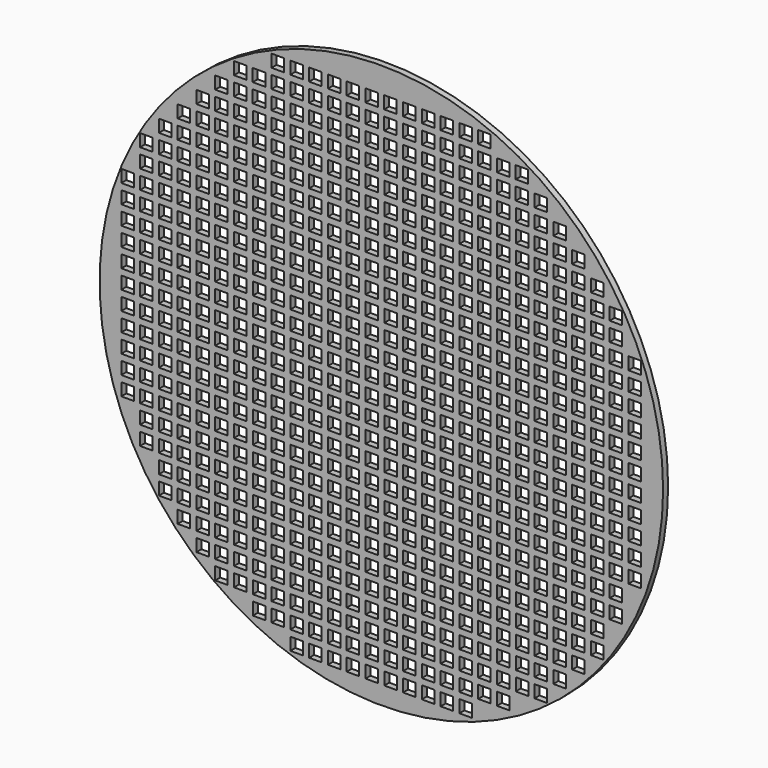
from build123d import *

# Parameters (mm, degrees)
F0_R     = 114.3
F1_DEPTH = 2.54
F2_W     = 5.08
F2_H     = 5.08
F3_DEPTH = 25.4
F4_W     = 5.08
F4_H     = 5.08
F5_DEPTH = 50.8
F6_W     = 5.080008
F6_H     = 5.08
F6_W_2   = 5.08
F7_DEPTH = 25.4


with BuildPart() as f1:
    # F0 (on Front) → F1 (new body)
    with BuildSketch(Plane.XZ):
        Circle(F0_R)
    extrude(amount=F1_DEPTH)

    # F2 (on face) → F3 (cut)
    with BuildSketch(Plane.XZ.offset(2.54)):
        with Locations((-64.856166, 78.62742)):
            Rectangle(F2_W, F2_H)
        with Locations((-64.856166, 71.00742)):
            Rectangle(F2_W, F2_H)
        with Locations((-64.856166, 63.38742)):
            Rectangle(F2_W, F2_H)
        with Locations((-64.856166, 55.76742)):
            Rectangle(F2_W, F2_H)
        with Locations((-64.856166, 48.14742)):
            Rectangle(F2_W, F2_H)
        with Locations((-64.856166, 40.52742)):
            Rectangle(F2_W, F2_H)
        with Locations((-64.856166, 32.90742)):
            Rectangle(F2_W, F2_H)
        with Locations((-64.856166, 25.28742)):
            Rectangle(F2_W, F2_H)
        with Locations((-64.856166, 17.66742)):
            Rectangle(F2_W, F2_H)
        with Locations((-64.856166, 10.04742)):
            Rectangle(F2_W, F2_H)
        with Locations((-64.856166, 2.42742)):
            Rectangle(F2_W, F2_H)
        with Locations((-64.856166, -5.19258)):
            Rectangle(F2_W, F2_H)
        with Locations((-64.856166, -12.81258)):
            Rectangle(F2_W, F2_H)
        with Locations((-64.856166, -20.43258)):
            Rectangle(F2_W, F2_H)
        with Locations((-64.856166, -28.05258)):
            Rectangle(F2_W, F2_H)
        with Locations((-64.856166, -35.67258)):
            Rectangle(F2_W, F2_H)
        with Locations((-64.856166, -43.29258)):
            Rectangle(F2_W, F2_H)
        with Locations((-64.856166, -50.91258)):
            Rectangle(F2_W, F2_H)
        with Locations((-64.856166, -58.53258)):
            Rectangle(F2_W, F2_H)
        with Locations((-64.856166, -66.15258)):
            Rectangle(F2_W, F2_H)
        with Locations((-64.856166, -73.77258)):
            Rectangle(F2_W, F2_H)
        with Locations((-64.856166, -81.39258)):
            Rectangle(F2_W, F2_H)
        with Locations((-57.236166, 78.62742)):
            Rectangle(F2_W, F2_H)
        with Locations((-57.236166, 71.00742)):
            Rectangle(F2_W, F2_H)
        with Locations((-57.236166, 63.38742)):
            Rectangle(F2_W, F2_H)
        with Locations((-57.236166, 55.76742)):
            Rectangle(F2_W, F2_H)
        with Locations((-57.236166, 48.14742)):
            Rectangle(F2_W, F2_H)
        with Locations((-57.236166, 40.52742)):
            Rectangle(F2_W, F2_H)
        with Locations((-57.236166, 32.90742)):
            Rectangle(F2_W, F2_H)
        with Locations((-57.236166, 25.28742)):
            Rectangle(F2_W, F2_H)
        with Locations((-57.236166, 17.66742)):
            Rectangle(F2_W, F2_H)
        with Locations((-57.236166, 10.04742)):
            Rectangle(F2_W, F2_H)
        with Locations((-57.236166, 2.42742)):
            Rectangle(F2_W, F2_H)
        with Locations((-57.236166, -5.19258)):
            Rectangle(F2_W, F2_H)
        with Locations((-57.236166, -12.81258)):
            Rectangle(F2_W, F2_H)
        with Locations((-57.236166, -20.43258)):
            Rectangle(F2_W, F2_H)
        with Locations((-57.236166, -28.05258)):
            Rectangle(F2_W, F2_H)
        with Locations((-57.236166, -35.67258)):
            Rectangle(F2_W, F2_H)
        with Locations((-57.236166, -43.29258)):
            Rectangle(F2_W, F2_H)
        with Locations((-57.236166, -50.91258)):
            Rectangle(F2_W, F2_H)
        with Locations((-57.236166, -58.53258)):
            Rectangle(F2_W, F2_H)
        with Locations((-57.236166, -66.15258)):
            Rectangle(F2_W, F2_H)
        with Locations((-57.236166, -73.77258)):
            Rectangle(F2_W, F2_H)
        with Locations((-57.236166, -81.39258)):
            Rectangle(F2_W, F2_H)
        with Locations((-49.616166, 78.62742)):
            Rectangle(F2_W, F2_H)
        with Locations((-49.616166, 71.00742)):
            Rectangle(F2_W, F2_H)
        with Locations((-49.616166, 63.38742)):
            Rectangle(F2_W, F2_H)
        with Locations((-49.616166, 55.76742)):
            Rectangle(F2_W, F2_H)
        with Locations((-49.616166, 48.14742)):
            Rectangle(F2_W, F2_H)
        with Locations((-49.616166, 40.52742)):
            Rectangle(F2_W, F2_H)
        with Locations((-49.616166, 32.90742)):
            Rectangle(F2_W, F2_H)
        with Locations((-49.616166, 25.28742)):
            Rectangle(F2_W, F2_H)
        with Locations((-49.616166, 17.66742)):
            Rectangle(F2_W, F2_H)
        with Locations((-49.616166, 10.04742)):
            Rectangle(F2_W, F2_H)
        with Locations((-49.616166, 2.42742)):
            Rectangle(F2_W, F2_H)
        with Locations((-49.616166, -5.19258)):
            Rectangle(F2_W, F2_H)
        with Locations((-49.616166, -12.81258)):
            Rectangle(F2_W, F2_H)
        with Locations((-49.616166, -20.43258)):
            Rectangle(F2_W, F2_H)
        with Locations((-49.616166, -28.05258)):
            Rectangle(F2_W, F2_H)
        with Locations((-49.616166, -35.67258)):
            Rectangle(F2_W, F2_H)
        with Locations((-49.616166, -43.29258)):
            Rectangle(F2_W, F2_H)
        with Locations((-49.616166, -50.91258)):
            Rectangle(F2_W, F2_H)
        with Locations((-49.616166, -58.53258)):
            Rectangle(F2_W, F2_H)
        with Locations((-49.616166, -66.15258)):
            Rectangle(F2_W, F2_H)
        with Locations((-49.616166, -73.77258)):
            Rectangle(F2_W, F2_H)
        with Locations((-49.616166, -81.39258)):
            Rectangle(F2_W, F2_H)
        with Locations((-41.996166, 78.62742)):
            Rectangle(F2_W, F2_H)
        with Locations((-41.996166, 71.00742)):
            Rectangle(F2_W, F2_H)
        with Locations((-41.996166, 63.38742)):
            Rectangle(F2_W, F2_H)
        with Locations((-41.996166, 55.76742)):
            Rectangle(F2_W, F2_H)
        with Locations((-41.996166, 48.14742)):
            Rectangle(F2_W, F2_H)
        with Locations((-41.996166, 40.52742)):
            Rectangle(F2_W, F2_H)
        with Locations((-41.996166, 32.90742)):
            Rectangle(F2_W, F2_H)
        with Locations((-41.996166, 25.28742)):
            Rectangle(F2_W, F2_H)
        with Locations((-41.996166, 17.66742)):
            Rectangle(F2_W, F2_H)
        with Locations((-41.996166, 10.04742)):
            Rectangle(F2_W, F2_H)
        with Locations((-41.996166, 2.42742)):
            Rectangle(F2_W, F2_H)
        with Locations((-41.996166, -5.19258)):
            Rectangle(F2_W, F2_H)
        with Locations((-41.996166, -12.81258)):
            Rectangle(F2_W, F2_H)
        with Locations((-41.996166, -20.43258)):
            Rectangle(F2_W, F2_H)
        with Locations((-41.996166, -28.05258)):
            Rectangle(F2_W, F2_H)
        with Locations((-41.996166, -35.67258)):
            Rectangle(F2_W, F2_H)
        with Locations((-41.996166, -43.29258)):
            Rectangle(F2_W, F2_H)
        with Locations((-41.996166, -50.91258)):
            Rectangle(F2_W, F2_H)
        with Locations((-41.996166, -58.53258)):
            Rectangle(F2_W, F2_H)
        with Locations((-41.996166, -66.15258)):
            Rectangle(F2_W, F2_H)
        with Locations((-41.996166, -73.77258)):
            Rectangle(F2_W, F2_H)
        with Locations((-41.996166, -81.39258)):
            Rectangle(F2_W, F2_H)
        with Locations((-34.376166, 78.62742)):
            Rectangle(F2_W, F2_H)
        with Locations((-34.376166, 71.00742)):
            Rectangle(F2_W, F2_H)
        with Locations((-34.376166, 63.38742)):
            Rectangle(F2_W, F2_H)
        with Locations((-34.376166, 55.76742)):
            Rectangle(F2_W, F2_H)
        with Locations((-34.376166, 48.14742)):
            Rectangle(F2_W, F2_H)
        with Locations((-34.376166, 40.52742)):
            Rectangle(F2_W, F2_H)
        with Locations((-34.376166, 32.90742)):
            Rectangle(F2_W, F2_H)
        with Locations((-34.376166, 25.28742)):
            Rectangle(F2_W, F2_H)
        with Locations((-34.376166, 17.66742)):
            Rectangle(F2_W, F2_H)
        with Locations((-34.376166, 10.04742)):
            Rectangle(F2_W, F2_H)
        with Locations((-34.376166, 2.42742)):
            Rectangle(F2_W, F2_H)
        with Locations((-34.376166, -5.19258)):
            Rectangle(F2_W, F2_H)
        with Locations((-34.376166, -12.81258)):
            Rectangle(F2_W, F2_H)
        with Locations((-34.376166, -20.43258)):
            Rectangle(F2_W, F2_H)
        with Locations((-34.376166, -28.05258)):
            Rectangle(F2_W, F2_H)
        with Locations((-34.376166, -35.67258)):
            Rectangle(F2_W, F2_H)
        with Locations((-34.376166, -43.29258)):
            Rectangle(F2_W, F2_H)
        with Locations((-34.376166, -50.91258)):
            Rectangle(F2_W, F2_H)
        with Locations((-34.376166, -58.53258)):
            Rectangle(F2_W, F2_H)
        with Locations((-34.376166, -66.15258)):
            Rectangle(F2_W, F2_H)
        with Locations((-34.376166, -73.77258)):
            Rectangle(F2_W, F2_H)
        with Locations((-34.376166, -81.39258)):
            Rectangle(F2_W, F2_H)
        with Locations((-26.756166, 78.62742)):
            Rectangle(F2_W, F2_H)
        with Locations((-26.756166, 71.00742)):
            Rectangle(F2_W, F2_H)
        with Locations((-26.756166, 63.38742)):
            Rectangle(F2_W, F2_H)
        with Locations((-26.756166, 55.76742)):
            Rectangle(F2_W, F2_H)
        with Locations((-26.756166, 48.14742)):
            Rectangle(F2_W, F2_H)
        with Locations((-26.756166, 40.52742)):
            Rectangle(F2_W, F2_H)
        with Locations((-26.756166, 32.90742)):
            Rectangle(F2_W, F2_H)
        with Locations((-26.756166, 25.28742)):
            Rectangle(F2_W, F2_H)
        with Locations((-26.756166, 17.66742)):
            Rectangle(F2_W, F2_H)
        with Locations((-26.756166, 10.04742)):
            Rectangle(F2_W, F2_H)
        with Locations((-26.756166, 2.42742)):
            Rectangle(F2_W, F2_H)
        with Locations((-26.756166, -5.19258)):
            Rectangle(F2_W, F2_H)
        with Locations((-26.756166, -12.81258)):
            Rectangle(F2_W, F2_H)
        with Locations((-26.756166, -20.43258)):
            Rectangle(F2_W, F2_H)
        with Locations((-26.756166, -28.05258)):
            Rectangle(F2_W, F2_H)
        with Locations((-26.756166, -35.67258)):
            Rectangle(F2_W, F2_H)
        with Locations((-26.756166, -43.29258)):
            Rectangle(F2_W, F2_H)
        with Locations((-26.756166, -50.91258)):
            Rectangle(F2_W, F2_H)
        with Locations((-26.756166, -58.53258)):
            Rectangle(F2_W, F2_H)
        with Locations((-26.756166, -66.15258)):
            Rectangle(F2_W, F2_H)
        with Locations((-26.756166, -73.77258)):
            Rectangle(F2_W, F2_H)
        with Locations((-26.756166, -81.39258)):
            Rectangle(F2_W, F2_H)
        with Locations((-19.136166, 78.62742)):
            Rectangle(F2_W, F2_H)
        with Locations((-19.136166, 71.00742)):
            Rectangle(F2_W, F2_H)
        with Locations((-19.136166, 63.38742)):
            Rectangle(F2_W, F2_H)
        with Locations((-19.136166, 55.76742)):
            Rectangle(F2_W, F2_H)
        with Locations((-19.136166, 48.14742)):
            Rectangle(F2_W, F2_H)
        with Locations((-19.136166, 40.52742)):
            Rectangle(F2_W, F2_H)
        with Locations((-19.136166, 32.90742)):
            Rectangle(F2_W, F2_H)
        with Locations((-19.136166, 25.28742)):
            Rectangle(F2_W, F2_H)
        with Locations((-19.136166, 17.66742)):
            Rectangle(F2_W, F2_H)
        with Locations((-19.136166, 10.04742)):
            Rectangle(F2_W, F2_H)
        with Locations((-19.136166, 2.42742)):
            Rectangle(F2_W, F2_H)
        with Locations((-19.136166, -5.19258)):
            Rectangle(F2_W, F2_H)
        with Locations((-19.136166, -12.81258)):
            Rectangle(F2_W, F2_H)
        with Locations((-19.136166, -20.43258)):
            Rectangle(F2_W, F2_H)
        with Locations((-19.136166, -28.05258)):
            Rectangle(F2_W, F2_H)
        with Locations((-19.136166, -35.67258)):
            Rectangle(F2_W, F2_H)
        with Locations((-19.136166, -43.29258)):
            Rectangle(F2_W, F2_H)
        with Locations((-19.136166, -50.91258)):
            Rectangle(F2_W, F2_H)
        with Locations((-19.136166, -58.53258)):
            Rectangle(F2_W, F2_H)
        with Locations((-19.136166, -66.15258)):
            Rectangle(F2_W, F2_H)
        with Locations((-19.136166, -73.77258)):
            Rectangle(F2_W, F2_H)
        with Locations((-19.136166, -81.39258)):
            Rectangle(F2_W, F2_H)
        with Locations((-11.516166, 78.62742)):
            Rectangle(F2_W, F2_H)
        with Locations((-11.516166, 71.00742)):
            Rectangle(F2_W, F2_H)
        with Locations((-11.516166, 63.38742)):
            Rectangle(F2_W, F2_H)
        with Locations((-11.516166, 55.76742)):
            Rectangle(F2_W, F2_H)
        with Locations((-11.516166, 48.14742)):
            Rectangle(F2_W, F2_H)
        with Locations((-11.516166, 40.52742)):
            Rectangle(F2_W, F2_H)
        with Locations((-11.516166, 32.90742)):
            Rectangle(F2_W, F2_H)
        with Locations((-11.516166, 25.28742)):
            Rectangle(F2_W, F2_H)
        with Locations((-11.516166, 17.66742)):
            Rectangle(F2_W, F2_H)
        with Locations((-11.516166, 10.04742)):
            Rectangle(F2_W, F2_H)
        with Locations((-11.516166, 2.42742)):
            Rectangle(F2_W, F2_H)
        with Locations((-11.516166, -5.19258)):
            Rectangle(F2_W, F2_H)
        with Locations((-11.516166, -12.81258)):
            Rectangle(F2_W, F2_H)
        with Locations((-11.516166, -20.43258)):
            Rectangle(F2_W, F2_H)
        with Locations((-11.516166, -28.05258)):
            Rectangle(F2_W, F2_H)
        with Locations((-11.516166, -35.67258)):
            Rectangle(F2_W, F2_H)
        with Locations((-11.516166, -43.29258)):
            Rectangle(F2_W, F2_H)
        with Locations((-11.516166, -50.91258)):
            Rectangle(F2_W, F2_H)
        with Locations((-11.516166, -58.53258)):
            Rectangle(F2_W, F2_H)
        with Locations((-11.516166, -66.15258)):
            Rectangle(F2_W, F2_H)
        with Locations((-11.516166, -73.77258)):
            Rectangle(F2_W, F2_H)
        with Locations((-11.516166, -81.39258)):
            Rectangle(F2_W, F2_H)
        with Locations((-3.896166, 78.62742)):
            Rectangle(F2_W, F2_H)
        with Locations((-3.896166, 71.00742)):
            Rectangle(F2_W, F2_H)
        with Locations((-3.896166, 63.38742)):
            Rectangle(F2_W, F2_H)
        with Locations((-3.896166, 55.76742)):
            Rectangle(F2_W, F2_H)
        with Locations((-3.896166, 48.14742)):
            Rectangle(F2_W, F2_H)
        with Locations((-3.896166, 40.52742)):
            Rectangle(F2_W, F2_H)
        with Locations((-3.896166, 32.90742)):
            Rectangle(F2_W, F2_H)
        with Locations((-3.896166, 25.28742)):
            Rectangle(F2_W, F2_H)
        with Locations((-3.896166, 17.66742)):
            Rectangle(F2_W, F2_H)
        with Locations((-3.896166, 10.04742)):
            Rectangle(F2_W, F2_H)
        with Locations((-3.896166, 2.42742)):
            Rectangle(F2_W, F2_H)
        with Locations((-3.896166, -5.19258)):
            Rectangle(F2_W, F2_H)
        with Locations((-3.896166, -12.81258)):
            Rectangle(F2_W, F2_H)
        with Locations((-3.896166, -20.43258)):
            Rectangle(F2_W, F2_H)
        with Locations((-3.896166, -28.05258)):
            Rectangle(F2_W, F2_H)
        with Locations((-3.896166, -35.67258)):
            Rectangle(F2_W, F2_H)
        with Locations((-3.896166, -43.29258)):
            Rectangle(F2_W, F2_H)
        with Locations((-3.896166, -50.91258)):
            Rectangle(F2_W, F2_H)
        with Locations((-3.896166, -58.53258)):
            Rectangle(F2_W, F2_H)
        with Locations((-3.896166, -66.15258)):
            Rectangle(F2_W, F2_H)
        with Locations((-3.896166, -73.77258)):
            Rectangle(F2_W, F2_H)
        with Locations((-3.896166, -81.39258)):
            Rectangle(F2_W, F2_H)
        with Locations((3.723834, 78.62742)):
            Rectangle(F2_W, F2_H)
        with Locations((3.723834, 71.00742)):
            Rectangle(F2_W, F2_H)
        with Locations((3.723834, 63.38742)):
            Rectangle(F2_W, F2_H)
        with Locations((3.723834, 55.76742)):
            Rectangle(F2_W, F2_H)
        with Locations((3.723834, 48.14742)):
            Rectangle(F2_W, F2_H)
        with Locations((3.723834, 40.52742)):
            Rectangle(F2_W, F2_H)
        with Locations((3.723834, 32.90742)):
            Rectangle(F2_W, F2_H)
        with Locations((3.723834, 25.28742)):
            Rectangle(F2_W, F2_H)
        with Locations((3.723834, 17.66742)):
            Rectangle(F2_W, F2_H)
        with Locations((3.723834, 10.04742)):
            Rectangle(F2_W, F2_H)
        with Locations((3.723834, 2.42742)):
            Rectangle(F2_W, F2_H)
        with Locations((3.723834, -5.19258)):
            Rectangle(F2_W, F2_H)
        with Locations((3.723834, -12.81258)):
            Rectangle(F2_W, F2_H)
        with Locations((3.723834, -20.43258)):
            Rectangle(F2_W, F2_H)
        with Locations((3.723834, -28.05258)):
            Rectangle(F2_W, F2_H)
        with Locations((3.723834, -35.67258)):
            Rectangle(F2_W, F2_H)
        with Locations((3.723834, -43.29258)):
            Rectangle(F2_W, F2_H)
        with Locations((3.723834, -50.91258)):
            Rectangle(F2_W, F2_H)
        with Locations((3.723834, -58.53258)):
            Rectangle(F2_W, F2_H)
        with Locations((3.723834, -66.15258)):
            Rectangle(F2_W, F2_H)
        with Locations((3.723834, -73.77258)):
            Rectangle(F2_W, F2_H)
        with Locations((3.723834, -81.39258)):
            Rectangle(F2_W, F2_H)
        with Locations((11.343834, 78.62742)):
            Rectangle(F2_W, F2_H)
        with Locations((11.343834, 71.00742)):
            Rectangle(F2_W, F2_H)
        with Locations((11.343834, 63.38742)):
            Rectangle(F2_W, F2_H)
        with Locations((11.343834, 55.76742)):
            Rectangle(F2_W, F2_H)
        with Locations((11.343834, 48.14742)):
            Rectangle(F2_W, F2_H)
        with Locations((11.343834, 40.52742)):
            Rectangle(F2_W, F2_H)
        with Locations((11.343834, 32.90742)):
            Rectangle(F2_W, F2_H)
        with Locations((11.343834, 25.28742)):
            Rectangle(F2_W, F2_H)
        with Locations((11.343834, 17.66742)):
            Rectangle(F2_W, F2_H)
        with Locations((11.343834, 10.04742)):
            Rectangle(F2_W, F2_H)
        with Locations((11.343834, 2.42742)):
            Rectangle(F2_W, F2_H)
        with Locations((11.343834, -5.19258)):
            Rectangle(F2_W, F2_H)
        with Locations((11.343834, -12.81258)):
            Rectangle(F2_W, F2_H)
        with Locations((11.343834, -20.43258)):
            Rectangle(F2_W, F2_H)
        with Locations((11.343834, -28.05258)):
            Rectangle(F2_W, F2_H)
        with Locations((11.343834, -35.67258)):
            Rectangle(F2_W, F2_H)
        with Locations((11.343834, -43.29258)):
            Rectangle(F2_W, F2_H)
        with Locations((11.343834, -50.91258)):
            Rectangle(F2_W, F2_H)
        with Locations((11.343834, -58.53258)):
            Rectangle(F2_W, F2_H)
        with Locations((11.343834, -66.15258)):
            Rectangle(F2_W, F2_H)
        with Locations((11.343834, -73.77258)):
            Rectangle(F2_W, F2_H)
        with Locations((11.343834, -81.39258)):
            Rectangle(F2_W, F2_H)
        with Locations((18.963834, 78.62742)):
            Rectangle(F2_W, F2_H)
        with Locations((18.963834, 71.00742)):
            Rectangle(F2_W, F2_H)
        with Locations((18.963834, 63.38742)):
            Rectangle(F2_W, F2_H)
        with Locations((18.963834, 55.76742)):
            Rectangle(F2_W, F2_H)
        with Locations((18.963834, 48.14742)):
            Rectangle(F2_W, F2_H)
        with Locations((18.963834, 40.52742)):
            Rectangle(F2_W, F2_H)
        with Locations((18.963834, 32.90742)):
            Rectangle(F2_W, F2_H)
        with Locations((18.963834, 25.28742)):
            Rectangle(F2_W, F2_H)
        with Locations((18.963834, 17.66742)):
            Rectangle(F2_W, F2_H)
        with Locations((18.963834, 10.04742)):
            Rectangle(F2_W, F2_H)
        with Locations((18.963834, 2.42742)):
            Rectangle(F2_W, F2_H)
        with Locations((18.963834, -5.19258)):
            Rectangle(F2_W, F2_H)
        with Locations((18.963834, -12.81258)):
            Rectangle(F2_W, F2_H)
        with Locations((18.963834, -20.43258)):
            Rectangle(F2_W, F2_H)
        with Locations((18.963834, -28.05258)):
            Rectangle(F2_W, F2_H)
        with Locations((18.963834, -35.67258)):
            Rectangle(F2_W, F2_H)
        with Locations((18.963834, -43.29258)):
            Rectangle(F2_W, F2_H)
        with Locations((18.963834, -50.91258)):
            Rectangle(F2_W, F2_H)
        with Locations((18.963834, -58.53258)):
            Rectangle(F2_W, F2_H)
        with Locations((18.963834, -66.15258)):
            Rectangle(F2_W, F2_H)
        with Locations((18.963834, -73.77258)):
            Rectangle(F2_W, F2_H)
        with Locations((18.963834, -81.39258)):
            Rectangle(F2_W, F2_H)
        with Locations((26.583834, 78.62742)):
            Rectangle(F2_W, F2_H)
        with Locations((26.583834, 71.00742)):
            Rectangle(F2_W, F2_H)
        with Locations((26.583834, 63.38742)):
            Rectangle(F2_W, F2_H)
        with Locations((26.583834, 55.76742)):
            Rectangle(F2_W, F2_H)
        with Locations((26.583834, 48.14742)):
            Rectangle(F2_W, F2_H)
        with Locations((26.583834, 40.52742)):
            Rectangle(F2_W, F2_H)
        with Locations((26.583834, 32.90742)):
            Rectangle(F2_W, F2_H)
        with Locations((26.583834, 25.28742)):
            Rectangle(F2_W, F2_H)
        with Locations((26.583834, 17.66742)):
            Rectangle(F2_W, F2_H)
        with Locations((26.583834, 10.04742)):
            Rectangle(F2_W, F2_H)
        with Locations((26.583834, 2.42742)):
            Rectangle(F2_W, F2_H)
        with Locations((26.583834, -5.19258)):
            Rectangle(F2_W, F2_H)
        with Locations((26.583834, -12.81258)):
            Rectangle(F2_W, F2_H)
        with Locations((26.583834, -20.43258)):
            Rectangle(F2_W, F2_H)
        with Locations((26.583834, -28.05258)):
            Rectangle(F2_W, F2_H)
        with Locations((26.583834, -35.67258)):
            Rectangle(F2_W, F2_H)
        with Locations((26.583834, -43.29258)):
            Rectangle(F2_W, F2_H)
        with Locations((26.583834, -50.91258)):
            Rectangle(F2_W, F2_H)
        with Locations((26.583834, -58.53258)):
            Rectangle(F2_W, F2_H)
        with Locations((26.583834, -66.15258)):
            Rectangle(F2_W, F2_H)
        with Locations((26.583834, -73.77258)):
            Rectangle(F2_W, F2_H)
        with Locations((26.583834, -81.39258)):
            Rectangle(F2_W, F2_H)
        with Locations((34.203834, 78.62742)):
            Rectangle(F2_W, F2_H)
        with Locations((34.203834, 71.00742)):
            Rectangle(F2_W, F2_H)
        with Locations((34.203834, 63.38742)):
            Rectangle(F2_W, F2_H)
        with Locations((34.203834, 55.76742)):
            Rectangle(F2_W, F2_H)
        with Locations((34.203834, 48.14742)):
            Rectangle(F2_W, F2_H)
        with Locations((34.203834, 40.52742)):
            Rectangle(F2_W, F2_H)
        with Locations((34.203834, 32.90742)):
            Rectangle(F2_W, F2_H)
        with Locations((34.203834, 25.28742)):
            Rectangle(F2_W, F2_H)
        with Locations((34.203834, 17.66742)):
            Rectangle(F2_W, F2_H)
        with Locations((34.203834, 10.04742)):
            Rectangle(F2_W, F2_H)
        with Locations((34.203834, 2.42742)):
            Rectangle(F2_W, F2_H)
        with Locations((34.203834, -5.19258)):
            Rectangle(F2_W, F2_H)
        with Locations((34.203834, -12.81258)):
            Rectangle(F2_W, F2_H)
        with Locations((34.203834, -20.43258)):
            Rectangle(F2_W, F2_H)
        with Locations((34.203834, -28.05258)):
            Rectangle(F2_W, F2_H)
        with Locations((34.203834, -35.67258)):
            Rectangle(F2_W, F2_H)
        with Locations((34.203834, -43.29258)):
            Rectangle(F2_W, F2_H)
        with Locations((34.203834, -50.91258)):
            Rectangle(F2_W, F2_H)
        with Locations((34.203834, -58.53258)):
            Rectangle(F2_W, F2_H)
        with Locations((34.203834, -66.15258)):
            Rectangle(F2_W, F2_H)
        with Locations((34.203834, -73.77258)):
            Rectangle(F2_W, F2_H)
        with Locations((34.203834, -81.39258)):
            Rectangle(F2_W, F2_H)
        with Locations((41.823834, 78.62742)):
            Rectangle(F2_W, F2_H)
        with Locations((41.823834, 71.00742)):
            Rectangle(F2_W, F2_H)
        with Locations((41.823834, 63.38742)):
            Rectangle(F2_W, F2_H)
        with Locations((41.823834, 55.76742)):
            Rectangle(F2_W, F2_H)
        with Locations((41.823834, 48.14742)):
            Rectangle(F2_W, F2_H)
        with Locations((41.823834, 40.52742)):
            Rectangle(F2_W, F2_H)
        with Locations((41.823834, 32.90742)):
            Rectangle(F2_W, F2_H)
        with Locations((41.823834, 25.28742)):
            Rectangle(F2_W, F2_H)
        with Locations((41.823834, 17.66742)):
            Rectangle(F2_W, F2_H)
        with Locations((41.823834, 10.04742)):
            Rectangle(F2_W, F2_H)
        with Locations((41.823834, 2.42742)):
            Rectangle(F2_W, F2_H)
        with Locations((41.823834, -5.19258)):
            Rectangle(F2_W, F2_H)
        with Locations((41.823834, -12.81258)):
            Rectangle(F2_W, F2_H)
        with Locations((41.823834, -20.43258)):
            Rectangle(F2_W, F2_H)
        with Locations((41.823834, -28.05258)):
            Rectangle(F2_W, F2_H)
        with Locations((41.823834, -35.67258)):
            Rectangle(F2_W, F2_H)
        with Locations((41.823834, -43.29258)):
            Rectangle(F2_W, F2_H)
        with Locations((41.823834, -50.91258)):
            Rectangle(F2_W, F2_H)
        with Locations((41.823834, -58.53258)):
            Rectangle(F2_W, F2_H)
        with Locations((41.823834, -66.15258)):
            Rectangle(F2_W, F2_H)
        with Locations((41.823834, -73.77258)):
            Rectangle(F2_W, F2_H)
        with Locations((41.823834, -81.39258)):
            Rectangle(F2_W, F2_H)
        with Locations((49.443834, 78.62742)):
            Rectangle(F2_W, F2_H)
        with Locations((49.443834, 71.00742)):
            Rectangle(F2_W, F2_H)
        with Locations((49.443834, 63.38742)):
            Rectangle(F2_W, F2_H)
        with Locations((49.443834, 55.76742)):
            Rectangle(F2_W, F2_H)
        with Locations((49.443834, 48.14742)):
            Rectangle(F2_W, F2_H)
        with Locations((49.443834, 40.52742)):
            Rectangle(F2_W, F2_H)
        with Locations((49.443834, 32.90742)):
            Rectangle(F2_W, F2_H)
        with Locations((49.443834, 25.28742)):
            Rectangle(F2_W, F2_H)
        with Locations((49.443834, 17.66742)):
            Rectangle(F2_W, F2_H)
        with Locations((49.443834, 10.04742)):
            Rectangle(F2_W, F2_H)
        with Locations((49.443834, 2.42742)):
            Rectangle(F2_W, F2_H)
        with Locations((49.443834, -5.19258)):
            Rectangle(F2_W, F2_H)
        with Locations((49.443834, -12.81258)):
            Rectangle(F2_W, F2_H)
        with Locations((49.443834, -20.43258)):
            Rectangle(F2_W, F2_H)
        with Locations((49.443834, -28.05258)):
            Rectangle(F2_W, F2_H)
        with Locations((49.443834, -35.67258)):
            Rectangle(F2_W, F2_H)
        with Locations((49.443834, -43.29258)):
            Rectangle(F2_W, F2_H)
        with Locations((49.443834, -50.91258)):
            Rectangle(F2_W, F2_H)
        with Locations((49.443834, -58.53258)):
            Rectangle(F2_W, F2_H)
        with Locations((49.443834, -66.15258)):
            Rectangle(F2_W, F2_H)
        with Locations((49.443834, -73.77258)):
            Rectangle(F2_W, F2_H)
        with Locations((49.443834, -81.39258)):
            Rectangle(F2_W, F2_H)
        with Locations((57.063834, 78.62742)):
            Rectangle(F2_W, F2_H)
        with Locations((57.063834, 71.00742)):
            Rectangle(F2_W, F2_H)
        with Locations((57.063834, 63.38742)):
            Rectangle(F2_W, F2_H)
        with Locations((57.063834, 55.76742)):
            Rectangle(F2_W, F2_H)
        with Locations((57.063834, 48.14742)):
            Rectangle(F2_W, F2_H)
        with Locations((57.063834, 40.52742)):
            Rectangle(F2_W, F2_H)
        with Locations((57.063834, 32.90742)):
            Rectangle(F2_W, F2_H)
        with Locations((57.063834, 25.28742)):
            Rectangle(F2_W, F2_H)
        with Locations((57.063834, 17.66742)):
            Rectangle(F2_W, F2_H)
        with Locations((57.063834, 10.04742)):
            Rectangle(F2_W, F2_H)
        with Locations((57.063834, 2.42742)):
            Rectangle(F2_W, F2_H)
        with Locations((57.063834, -5.19258)):
            Rectangle(F2_W, F2_H)
        with Locations((57.063834, -12.81258)):
            Rectangle(F2_W, F2_H)
        with Locations((57.063834, -20.43258)):
            Rectangle(F2_W, F2_H)
        with Locations((57.063834, -28.05258)):
            Rectangle(F2_W, F2_H)
        with Locations((57.063834, -35.67258)):
            Rectangle(F2_W, F2_H)
        with Locations((57.063834, -43.29258)):
            Rectangle(F2_W, F2_H)
        with Locations((57.063834, -50.91258)):
            Rectangle(F2_W, F2_H)
        with Locations((57.063834, -58.53258)):
            Rectangle(F2_W, F2_H)
        with Locations((57.063834, -66.15258)):
            Rectangle(F2_W, F2_H)
        with Locations((57.063834, -73.77258)):
            Rectangle(F2_W, F2_H)
        with Locations((57.063834, -81.39258)):
            Rectangle(F2_W, F2_H)
        with Locations((64.683834, 78.62742)):
            Rectangle(F2_W, F2_H)
        with Locations((64.683834, 71.00742)):
            Rectangle(F2_W, F2_H)
        with Locations((64.683834, 63.38742)):
            Rectangle(F2_W, F2_H)
        with Locations((64.683834, 55.76742)):
            Rectangle(F2_W, F2_H)
        with Locations((64.683834, 48.14742)):
            Rectangle(F2_W, F2_H)
        with Locations((64.683834, 40.52742)):
            Rectangle(F2_W, F2_H)
        with Locations((64.683834, 32.90742)):
            Rectangle(F2_W, F2_H)
        with Locations((64.683834, 25.28742)):
            Rectangle(F2_W, F2_H)
        with Locations((64.683834, 17.66742)):
            Rectangle(F2_W, F2_H)
        with Locations((64.683834, 10.04742)):
            Rectangle(F2_W, F2_H)
        with Locations((64.683834, 2.42742)):
            Rectangle(F2_W, F2_H)
        with Locations((64.683834, -5.19258)):
            Rectangle(F2_W, F2_H)
        with Locations((64.683834, -12.81258)):
            Rectangle(F2_W, F2_H)
        with Locations((64.683834, -20.43258)):
            Rectangle(F2_W, F2_H)
        with Locations((64.683834, -28.05258)):
            Rectangle(F2_W, F2_H)
        with Locations((64.683834, -35.67258)):
            Rectangle(F2_W, F2_H)
        with Locations((64.683834, -43.29258)):
            Rectangle(F2_W, F2_H)
        with Locations((64.683834, -50.91258)):
            Rectangle(F2_W, F2_H)
        with Locations((64.683834, -58.53258)):
            Rectangle(F2_W, F2_H)
        with Locations((64.683834, -66.15258)):
            Rectangle(F2_W, F2_H)
        with Locations((64.683834, -73.77258)):
            Rectangle(F2_W, F2_H)
        with Locations((64.683834, -81.39258)):
            Rectangle(F2_W, F2_H)
        with Locations((72.303834, 78.62742)):
            Rectangle(F2_W, F2_H)
        with Locations((72.303834, 71.00742)):
            Rectangle(F2_W, F2_H)
        with Locations((72.303834, 63.38742)):
            Rectangle(F2_W, F2_H)
        with Locations((72.303834, 55.76742)):
            Rectangle(F2_W, F2_H)
        with Locations((72.303834, 48.14742)):
            Rectangle(F2_W, F2_H)
        with Locations((72.303834, 40.52742)):
            Rectangle(F2_W, F2_H)
        with Locations((72.303834, 32.90742)):
            Rectangle(F2_W, F2_H)
        with Locations((72.303834, 25.28742)):
            Rectangle(F2_W, F2_H)
        with Locations((72.303834, 17.66742)):
            Rectangle(F2_W, F2_H)
        with Locations((72.303834, 10.04742)):
            Rectangle(F2_W, F2_H)
        with Locations((72.303834, 2.42742)):
            Rectangle(F2_W, F2_H)
        with Locations((72.303834, -5.19258)):
            Rectangle(F2_W, F2_H)
        with Locations((72.303834, -12.81258)):
            Rectangle(F2_W, F2_H)
        with Locations((72.303834, -20.43258)):
            Rectangle(F2_W, F2_H)
        with Locations((72.303834, -28.05258)):
            Rectangle(F2_W, F2_H)
        with Locations((72.303834, -35.67258)):
            Rectangle(F2_W, F2_H)
        with Locations((72.303834, -43.29258)):
            Rectangle(F2_W, F2_H)
        with Locations((72.303834, -50.91258)):
            Rectangle(F2_W, F2_H)
        with Locations((72.303834, -58.53258)):
            Rectangle(F2_W, F2_H)
        with Locations((72.303834, -66.15258)):
            Rectangle(F2_W, F2_H)
        with Locations((72.303834, -73.77258)):
            Rectangle(F2_W, F2_H)
        with Locations((72.303834, -81.39258)):
            Rectangle(F2_W, F2_H)
    extrude(amount=-F3_DEPTH, mode=Mode.SUBTRACT)

    # F4 (on face) → F5 (cut)
    with BuildSketch(Plane.XZ.offset(2.54)):
        with Locations((-72.476166, 78.621834)):
            Rectangle(F4_W, F4_H)
        with Locations((-72.476166, 71.001834)):
            Rectangle(F4_W, F4_H)
        with Locations((-72.476166, 63.381834)):
            Rectangle(F4_W, F4_H)
        with Locations((-72.476166, 55.761834)):
            Rectangle(F4_W, F4_H)
        with Locations((-72.476166, 48.141834)):
            Rectangle(F4_W, F4_H)
        with Locations((-72.476166, 40.521834)):
            Rectangle(F4_W, F4_H)
        with Locations((-72.476166, 32.901834)):
            Rectangle(F4_W, F4_H)
        with Locations((-72.476166, 25.281834)):
            Rectangle(F4_W, F4_H)
        with Locations((-72.476166, 17.661834)):
            Rectangle(F4_W, F4_H)
        with Locations((-72.476166, 10.041834)):
            Rectangle(F4_W, F4_H)
        with Locations((-72.476166, 2.421834)):
            Rectangle(F4_W, F4_H)
        with Locations((-72.476166, -5.198166)):
            Rectangle(F4_W, F4_H)
        with Locations((-72.476166, -12.818166)):
            Rectangle(F4_W, F4_H)
        with Locations((-72.476166, -20.438166)):
            Rectangle(F4_W, F4_H)
        with Locations((-72.476166, -28.058166)):
            Rectangle(F4_W, F4_H)
        with Locations((-72.476166, -35.678166)):
            Rectangle(F4_W, F4_H)
        with Locations((-72.476166, -43.298166)):
            Rectangle(F4_W, F4_H)
        with Locations((-72.476166, -50.918166)):
            Rectangle(F4_W, F4_H)
        with Locations((-72.476166, -58.538166)):
            Rectangle(F4_W, F4_H)
        with Locations((-72.476166, -66.158166)):
            Rectangle(F4_W, F4_H)
        with Locations((-80.096166, 71.001834)):
            Rectangle(F4_W, F4_H)
        with Locations((-80.096166, 63.381834)):
            Rectangle(F4_W, F4_H)
        with Locations((-80.096166, 55.761834)):
            Rectangle(F4_W, F4_H)
        with Locations((-80.096166, 48.141834)):
            Rectangle(F4_W, F4_H)
        with Locations((-80.096166, 40.521834)):
            Rectangle(F4_W, F4_H)
        with Locations((-80.096166, 32.901834)):
            Rectangle(F4_W, F4_H)
        with Locations((-80.096166, 25.281834)):
            Rectangle(F4_W, F4_H)
        with Locations((-80.096166, 17.661834)):
            Rectangle(F4_W, F4_H)
        with Locations((-80.096166, 10.041834)):
            Rectangle(F4_W, F4_H)
        with Locations((-80.096166, 2.421834)):
            Rectangle(F4_W, F4_H)
        with Locations((-80.096166, -5.198166)):
            Rectangle(F4_W, F4_H)
        with Locations((-80.096166, -12.818166)):
            Rectangle(F4_W, F4_H)
        with Locations((-80.096166, -20.438166)):
            Rectangle(F4_W, F4_H)
        with Locations((-80.096166, -28.058166)):
            Rectangle(F4_W, F4_H)
        with Locations((-80.096166, -35.678166)):
            Rectangle(F4_W, F4_H)
        with Locations((-80.096166, -43.298166)):
            Rectangle(F4_W, F4_H)
        with Locations((-80.096166, -50.918166)):
            Rectangle(F4_W, F4_H)
        with Locations((-80.096166, -58.538166)):
            Rectangle(F4_W, F4_H)
        with Locations((-80.096166, -66.158166)):
            Rectangle(F4_W, F4_H)
        with Locations((-87.716166, 63.381834)):
            Rectangle(F4_W, F4_H)
        with Locations((-87.716166, 55.761834)):
            Rectangle(F4_W, F4_H)
        with Locations((-87.716166, 48.141834)):
            Rectangle(F4_W, F4_H)
        with Locations((-87.716166, 40.521834)):
            Rectangle(F4_W, F4_H)
        with Locations((-87.716166, 32.901834)):
            Rectangle(F4_W, F4_H)
        with Locations((-87.716166, 25.281834)):
            Rectangle(F4_W, F4_H)
        with Locations((-87.716166, 17.661834)):
            Rectangle(F4_W, F4_H)
        with Locations((-87.716166, 10.041834)):
            Rectangle(F4_W, F4_H)
        with Locations((-87.716166, 2.421834)):
            Rectangle(F4_W, F4_H)
        with Locations((-87.716166, -5.198166)):
            Rectangle(F4_W, F4_H)
        with Locations((-87.716166, -12.818166)):
            Rectangle(F4_W, F4_H)
        with Locations((-87.716166, -20.438166)):
            Rectangle(F4_W, F4_H)
        with Locations((-87.716166, -28.058166)):
            Rectangle(F4_W, F4_H)
        with Locations((-87.716166, -35.678166)):
            Rectangle(F4_W, F4_H)
        with Locations((-87.716166, -43.298166)):
            Rectangle(F4_W, F4_H)
        with Locations((-87.716166, -50.918166)):
            Rectangle(F4_W, F4_H)
        with Locations((-87.716166, -58.538166)):
            Rectangle(F4_W, F4_H)
        with Locations((-87.716166, -66.158166)):
            Rectangle(F4_W, F4_H)
        with Locations((-95.336166, 55.761834)):
            Rectangle(F4_W, F4_H)
        with Locations((-95.336166, 48.141834)):
            Rectangle(F4_W, F4_H)
        with Locations((-95.336166, 40.521834)):
            Rectangle(F4_W, F4_H)
        with Locations((-95.336166, 32.901834)):
            Rectangle(F4_W, F4_H)
        with Locations((-95.336166, 25.281834)):
            Rectangle(F4_W, F4_H)
        with Locations((-95.336166, 17.661834)):
            Rectangle(F4_W, F4_H)
        with Locations((-95.336166, 10.041834)):
            Rectangle(F4_W, F4_H)
        with Locations((-95.336166, 2.421834)):
            Rectangle(F4_W, F4_H)
        with Locations((-95.336166, -5.198166)):
            Rectangle(F4_W, F4_H)
        with Locations((-95.336166, -12.818166)):
            Rectangle(F4_W, F4_H)
        with Locations((-95.336166, -20.438166)):
            Rectangle(F4_W, F4_H)
        with Locations((-95.336166, -28.058166)):
            Rectangle(F4_W, F4_H)
        with Locations((-95.336166, -35.678166)):
            Rectangle(F4_W, F4_H)
        with Locations((-95.336166, -43.298166)):
            Rectangle(F4_W, F4_H)
        with Locations((-95.336166, -50.918166)):
            Rectangle(F4_W, F4_H)
        with Locations((-102.956166, 40.521834)):
            Rectangle(F4_W, F4_H)
        with Locations((-102.956166, 32.901834)):
            Rectangle(F4_W, F4_H)
        with Locations((-102.956166, 25.281834)):
            Rectangle(F4_W, F4_H)
        with Locations((-102.956166, 17.661834)):
            Rectangle(F4_W, F4_H)
        with Locations((-102.956166, 10.041834)):
            Rectangle(F4_W, F4_H)
        with Locations((-102.956166, 2.421834)):
            Rectangle(F4_W, F4_H)
        with Locations((-102.956166, -5.198166)):
            Rectangle(F4_W, F4_H)
        with Locations((-102.956166, -12.818166)):
            Rectangle(F4_W, F4_H)
        with Locations((-102.956166, -20.438166)):
            Rectangle(F4_W, F4_H)
        with Locations((-102.956166, -28.058166)):
            Rectangle(F4_W, F4_H)
        with Locations((-102.956166, -35.678166)):
            Rectangle(F4_W, F4_H)
        with Locations((-72.476166, -73.778166)):
            Rectangle(F4_W, F4_H)
        with Locations((-72.476166, -81.398166)):
            Rectangle(F4_W, F4_H)
        with Locations((-80.096166, -73.778166)):
            Rectangle(F4_W, F4_H)
        with Locations((79.923834, 71.001834)):
            Rectangle(F4_W, F4_H)
        with Locations((79.923834, 2.421834)):
            Rectangle(F4_W, F4_H)
        with Locations((95.163834, -50.918166)):
            Rectangle(F4_W, F4_H)
        with Locations((95.163834, 10.041834)):
            Rectangle(F4_W, F4_H)
        with Locations((79.923834, -43.298166)):
            Rectangle(F4_W, F4_H)
        with Locations((87.543834, -66.158166)):
            Rectangle(F4_W, F4_H)
        with Locations((102.783834, 17.661834)):
            Rectangle(F4_W, F4_H)
        with Locations((102.783834, 32.901834)):
            Rectangle(F4_W, F4_H)
        with Locations((95.163834, -12.818166)):
            Rectangle(F4_W, F4_H)
        with Locations((95.163834, 55.761834)):
            Rectangle(F4_W, F4_H)
        with Locations((79.923834, -73.778166)):
            Rectangle(F4_W, F4_H)
        with Locations((102.783834, -20.438166)):
            Rectangle(F4_W, F4_H)
        with Locations((95.163834, 32.901834)):
            Rectangle(F4_W, F4_H)
        with Locations((79.923834, -5.198166)):
            Rectangle(F4_W, F4_H)
        with Locations((87.543834, 40.521834)):
            Rectangle(F4_W, F4_H)
        with Locations((79.923834, -12.818166)):
            Rectangle(F4_W, F4_H)
        with Locations((95.163834, -5.198166)):
            Rectangle(F4_W, F4_H)
        with Locations((87.543834, 55.761834)):
            Rectangle(F4_W, F4_H)
        with Locations((79.923834, 32.901834)):
            Rectangle(F4_W, F4_H)
        with Locations((79.923834, -28.058166)):
            Rectangle(F4_W, F4_H)
        with Locations((79.923834, -50.918166)):
            Rectangle(F4_W, F4_H)
        with Locations((87.543834, 63.381834)):
            Rectangle(F4_W, F4_H)
        with Locations((87.543834, -28.058166)):
            Rectangle(F4_W, F4_H)
        with Locations((87.543834, 2.421834)):
            Rectangle(F4_W, F4_H)
        with Locations((95.163834, 2.421834)):
            Rectangle(F4_W, F4_H)
        with Locations((79.923834, 48.141834)):
            Rectangle(F4_W, F4_H)
        with Locations((87.543834, -20.438166)):
            Rectangle(F4_W, F4_H)
        with Locations((95.163834, -35.678166)):
            Rectangle(F4_W, F4_H)
        with Locations((87.543834, -5.198166)):
            Rectangle(F4_W, F4_H)
        with Locations((87.543834, -35.678166)):
            Rectangle(F4_W, F4_H)
        with Locations((95.163834, 48.141834)):
            Rectangle(F4_W, F4_H)
        with Locations((79.923834, -58.538166)):
            Rectangle(F4_W, F4_H)
        with Locations((79.923834, 55.761834)):
            Rectangle(F4_W, F4_H)
        with Locations((87.543834, 10.041834)):
            Rectangle(F4_W, F4_H)
        with Locations((87.543834, -43.298166)):
            Rectangle(F4_W, F4_H)
        with Locations((87.543834, -12.818166)):
            Rectangle(F4_W, F4_H)
        with Locations((87.543834, 48.141834)):
            Rectangle(F4_W, F4_H)
        with Locations((102.783834, 2.421834)):
            Rectangle(F4_W, F4_H)
        with Locations((87.543834, -58.538166)):
            Rectangle(F4_W, F4_H)
        with Locations((79.923834, 25.281834)):
            Rectangle(F4_W, F4_H)
        with Locations((87.543834, -50.918166)):
            Rectangle(F4_W, F4_H)
        with Locations((95.163834, 25.281834)):
            Rectangle(F4_W, F4_H)
        with Locations((79.923834, 40.521834)):
            Rectangle(F4_W, F4_H)
        with Locations((102.783834, 10.041834)):
            Rectangle(F4_W, F4_H)
        with Locations((102.783834, -12.818166)):
            Rectangle(F4_W, F4_H)
        with Locations((79.923834, 17.661834)):
            Rectangle(F4_W, F4_H)
        with Locations((95.163834, 40.521834)):
            Rectangle(F4_W, F4_H)
        with Locations((102.783834, -35.678166)):
            Rectangle(F4_W, F4_H)
        with Locations((87.543834, 32.901834)):
            Rectangle(F4_W, F4_H)
        with Locations((79.923834, -20.438166)):
            Rectangle(F4_W, F4_H)
        with Locations((102.783834, -28.058166)):
            Rectangle(F4_W, F4_H)
        with Locations((79.923834, -35.678166)):
            Rectangle(F4_W, F4_H)
        with Locations((95.163834, -28.058166)):
            Rectangle(F4_W, F4_H)
        with Locations((79.923834, -66.158166)):
            Rectangle(F4_W, F4_H)
        with Locations((79.923834, 10.041834)):
            Rectangle(F4_W, F4_H)
        with Locations((79.923834, 63.381834)):
            Rectangle(F4_W, F4_H)
        with Locations((102.783834, -5.198166)):
            Rectangle(F4_W, F4_H)
        with Locations((102.783834, 25.281834)):
            Rectangle(F4_W, F4_H)
        with Locations((87.543834, 17.661834)):
            Rectangle(F4_W, F4_H)
        with Locations((102.783834, 40.521834)):
            Rectangle(F4_W, F4_H)
        with Locations((95.163834, -43.298166)):
            Rectangle(F4_W, F4_H)
        with Locations((95.163834, -20.438166)):
            Rectangle(F4_W, F4_H)
        with Locations((87.543834, 25.281834)):
            Rectangle(F4_W, F4_H)
        with Locations((95.163834, 17.661834)):
            Rectangle(F4_W, F4_H)
    extrude(amount=-F5_DEPTH, mode=Mode.SUBTRACT)

    # F6 (on face) → F7 (cut)
    with BuildSketch(Plane.XZ.offset(2.54)):
        with Locations((-64.876836, 86.24742)):
            Rectangle(F6_W, F6_H)
        with Locations((-57.256836, 86.24742)):
            Rectangle(F6_W, F6_H)
        with Locations((-57.256836, 93.86742)):
            Rectangle(F6_W, F6_H)
        with Locations((-49.636836, 86.24742)):
            Rectangle(F6_W, F6_H)
        with Locations((-49.636836, 93.86742)):
            Rectangle(F6_W, F6_H)
        with Locations((-42.016836, 86.24742)):
            Rectangle(F6_W, F6_H)
        with Locations((-42.016836, 93.86742)):
            Rectangle(F6_W, F6_H)
        with Locations((-42.016836, 101.48742)):
            Rectangle(F6_W, F6_H)
        with Locations((-34.396836, 86.24742)):
            Rectangle(F6_W, F6_H)
        with Locations((-34.396836, 93.86742)):
            Rectangle(F6_W, F6_H)
        with Locations((-34.396836, 101.48742)):
            Rectangle(F6_W, F6_H)
        with Locations((-26.776836, 86.24742)):
            Rectangle(F6_W, F6_H)
        with Locations((-26.776836, 93.86742)):
            Rectangle(F6_W, F6_H)
        with Locations((-26.776836, 101.48742)):
            Rectangle(F6_W, F6_H)
        with Locations((-19.156836, 86.24742)):
            Rectangle(F6_W, F6_H)
        with Locations((-19.156836, 93.86742)):
            Rectangle(F6_W, F6_H)
        with Locations((-19.156836, 101.48742)):
            Rectangle(F6_W, F6_H)
        with Locations((-11.536836, 86.24742)):
            Rectangle(F6_W, F6_H)
        with Locations((-11.536836, 93.86742)):
            Rectangle(F6_W, F6_H)
        with Locations((-11.536836, 101.48742)):
            Rectangle(F6_W, F6_H)
        with Locations((-3.916836, 86.24742)):
            Rectangle(F6_W, F6_H)
        with Locations((-3.916836, 93.86742)):
            Rectangle(F6_W, F6_H)
        with Locations((-3.916836, 101.48742)):
            Rectangle(F6_W, F6_H)
        with Locations((3.703164, 86.24742)):
            Rectangle(F6_W, F6_H)
        with Locations((3.703164, 93.86742)):
            Rectangle(F6_W, F6_H)
        with Locations((3.703164, 101.48742)):
            Rectangle(F6_W, F6_H)
        with Locations((11.323164, 86.24742)):
            Rectangle(F6_W, F6_H)
        with Locations((11.323164, 93.86742)):
            Rectangle(F6_W, F6_H)
        with Locations((11.323164, 101.48742)):
            Rectangle(F6_W, F6_H)
        with Locations((18.943164, 86.24742)):
            Rectangle(F6_W, F6_H)
        with Locations((18.943164, 93.86742)):
            Rectangle(F6_W, F6_H)
        with Locations((18.943164, 101.48742)):
            Rectangle(F6_W, F6_H)
        with Locations((26.563164, 86.24742)):
            Rectangle(F6_W, F6_H)
        with Locations((26.563164, 93.86742)):
            Rectangle(F6_W, F6_H)
        with Locations((26.563164, 101.48742)):
            Rectangle(F6_W, F6_H)
        with Locations((34.183164, 86.24742)):
            Rectangle(F6_W, F6_H)
        with Locations((34.183164, 93.86742)):
            Rectangle(F6_W, F6_H)
        with Locations((34.183164, 101.48742)):
            Rectangle(F6_W, F6_H)
        with Locations((41.803164, 86.24742)):
            Rectangle(F6_W, F6_H)
        with Locations((41.803164, 93.86742)):
            Rectangle(F6_W, F6_H)
        with Locations((41.803164, 101.48742)):
            Rectangle(F6_W, F6_H)
        with Locations((49.423164, 86.24742)):
            Rectangle(F6_W, F6_H)
        with Locations((49.423164, 93.86742)):
            Rectangle(F6_W, F6_H)
        with Locations((57.043164, 86.24742)):
            Rectangle(F6_W, F6_H)
        with Locations((57.043164, 93.86742)):
            Rectangle(F6_W, F6_H)
        with Locations((64.663164, 86.24742)):
            Rectangle(F6_W, F6_H)
        with Locations((-64.856166, -89.01258)):
            Rectangle(F6_W_2, F6_H)
        with Locations((-57.236166, -89.01258)):
            Rectangle(F6_W_2, F6_H)
        with Locations((-49.616166, -89.01258)):
            Rectangle(F6_W_2, F6_H)
        with Locations((-49.616166, -96.63258)):
            Rectangle(F6_W_2, F6_H)
        with Locations((-41.996166, -89.01258)):
            Rectangle(F6_W_2, F6_H)
        with Locations((-41.996166, -96.63258)):
            Rectangle(F6_W_2, F6_H)
        with Locations((-34.376166, -89.01258)):
            Rectangle(F6_W_2, F6_H)
        with Locations((-34.376166, -96.63258)):
            Rectangle(F6_W_2, F6_H)
        with Locations((-34.376166, -104.25258)):
            Rectangle(F6_W_2, F6_H)
        with Locations((-26.756166, -89.01258)):
            Rectangle(F6_W_2, F6_H)
        with Locations((-26.756166, -96.63258)):
            Rectangle(F6_W_2, F6_H)
        with Locations((-26.756166, -104.25258)):
            Rectangle(F6_W_2, F6_H)
        with Locations((-19.136166, -89.01258)):
            Rectangle(F6_W_2, F6_H)
        with Locations((-19.136166, -96.63258)):
            Rectangle(F6_W_2, F6_H)
        with Locations((-19.136166, -104.25258)):
            Rectangle(F6_W_2, F6_H)
        with Locations((-11.516166, -89.01258)):
            Rectangle(F6_W_2, F6_H)
        with Locations((-11.516166, -96.63258)):
            Rectangle(F6_W_2, F6_H)
        with Locations((-11.516166, -104.25258)):
            Rectangle(F6_W_2, F6_H)
        with Locations((-3.896166, -89.01258)):
            Rectangle(F6_W_2, F6_H)
        with Locations((-3.896166, -96.63258)):
            Rectangle(F6_W_2, F6_H)
        with Locations((-3.896166, -104.25258)):
            Rectangle(F6_W_2, F6_H)
        with Locations((3.723834, -89.01258)):
            Rectangle(F6_W_2, F6_H)
        with Locations((3.723834, -96.63258)):
            Rectangle(F6_W_2, F6_H)
        with Locations((3.723834, -104.25258)):
            Rectangle(F6_W_2, F6_H)
        with Locations((11.343834, -89.01258)):
            Rectangle(F6_W_2, F6_H)
        with Locations((11.343834, -96.63258)):
            Rectangle(F6_W_2, F6_H)
        with Locations((11.343834, -104.25258)):
            Rectangle(F6_W_2, F6_H)
        with Locations((18.963834, -89.01258)):
            Rectangle(F6_W_2, F6_H)
        with Locations((18.963834, -96.63258)):
            Rectangle(F6_W_2, F6_H)
        with Locations((18.963834, -104.25258)):
            Rectangle(F6_W_2, F6_H)
        with Locations((26.583834, -89.01258)):
            Rectangle(F6_W_2, F6_H)
        with Locations((26.583834, -96.63258)):
            Rectangle(F6_W_2, F6_H)
        with Locations((26.583834, -104.25258)):
            Rectangle(F6_W_2, F6_H)
        with Locations((34.203834, -89.01258)):
            Rectangle(F6_W_2, F6_H)
        with Locations((34.203834, -96.63258)):
            Rectangle(F6_W_2, F6_H)
        with Locations((34.203834, -104.25258)):
            Rectangle(F6_W_2, F6_H)
        with Locations((41.823834, -89.01258)):
            Rectangle(F6_W_2, F6_H)
        with Locations((41.823834, -96.63258)):
            Rectangle(F6_W_2, F6_H)
        with Locations((49.443834, -89.01258)):
            Rectangle(F6_W_2, F6_H)
        with Locations((49.443834, -96.63258)):
            Rectangle(F6_W_2, F6_H)
        with Locations((57.063834, -89.01258)):
            Rectangle(F6_W_2, F6_H)
        with Locations((64.683834, -89.01258)):
            Rectangle(F6_W_2, F6_H)
    extrude(amount=-F7_DEPTH, mode=Mode.SUBTRACT)


solid = f1.part
